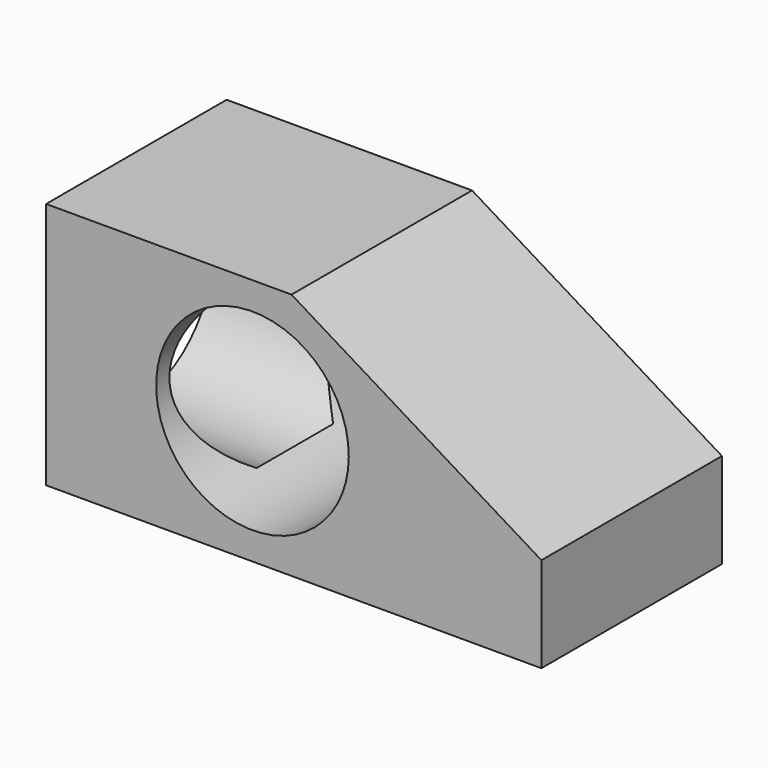
from build123d import *

# Parameters (mm, degrees)
F0_W     = 90
F0_H     = 45
F1_DEPTH = 41
F2_R     = 17.5
F3_DEPTH = 80.040589
F5_DEPTH = 60
F6_R     = 17.5
F7_DEPTH = 28.8


with BuildPart() as f1:
    # F0 (on Front) → F1 (new body)
    with BuildSketch(Plane.XZ):
        Rectangle(F0_W, F0_H)
    extrude(amount=F1_DEPTH)

    # F2 (on Front) → F3 (cut)
    with BuildSketch(Plane.XZ):
        with Locations((-7.5, 0)):
            Circle(F2_R)
    extrude(amount=F3_DEPTH, mode=Mode.SUBTRACT)

    # F4 (on face) → F5 (cut, symmetric)
    with BuildSketch(Plane.XZ):
        Polygon((-20.405538, 34.710526), (50.253086, -8.42718), (50.312012, 38.423195), align=None)
    extrude(amount=F5_DEPTH, both=True, mode=Mode.SUBTRACT)

    # F6 (on face) → F7 (cut)
    with BuildSketch(Plane(origin=(-45, 0, 0), x_dir=(0, -1, 0), z_dir=(-1, 0, 0))):
        with Locations((20.5, 0)):
            Circle(F6_R)
    extrude(amount=-F7_DEPTH, mode=Mode.SUBTRACT)


solid = f1.part
